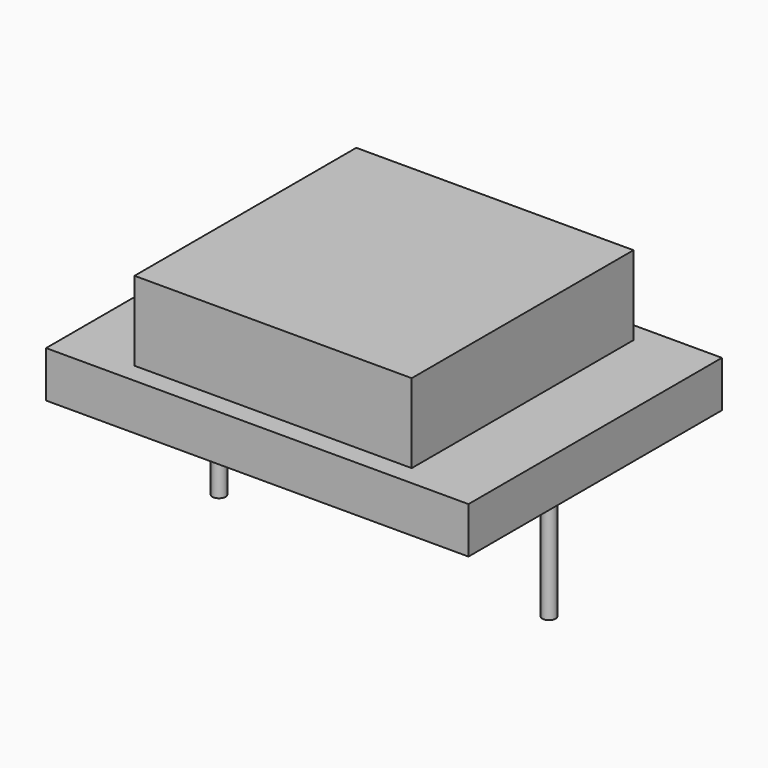
from build123d import *

# Parameters (mm, degrees)
F0_W     = 16
F0_H     = 12
F1_DEPTH = 1.75
F2_W     = 10.5
F2_H     = 10.5
F3_DEPTH = 3
F4_R     = 0.25
F5_DEPTH = 5


with BuildPart() as f1:
    # F0 (on Top) → F1 (new body)
    with BuildSketch(Plane.XY):
        Rectangle(F0_W, F0_H)
    extrude(amount=F1_DEPTH)

    # F2 (on face) → F3 (join)
    with BuildSketch(Plane.XY.offset(1.75)):
        Rectangle(F2_W, F2_H)
    extrude(amount=F3_DEPTH)

    # F4 (on face) → F5 (join)
    with BuildSketch(Plane(origin=(0, 0, 0), x_dir=(1, 0, 0), z_dir=(0, 0, -1))):
        with Locations((-6.25, 0)):
            Circle(F4_R)
        with Locations((6.25, 0)):
            Circle(F4_R)
    extrude(amount=F5_DEPTH)


solid = f1.part
